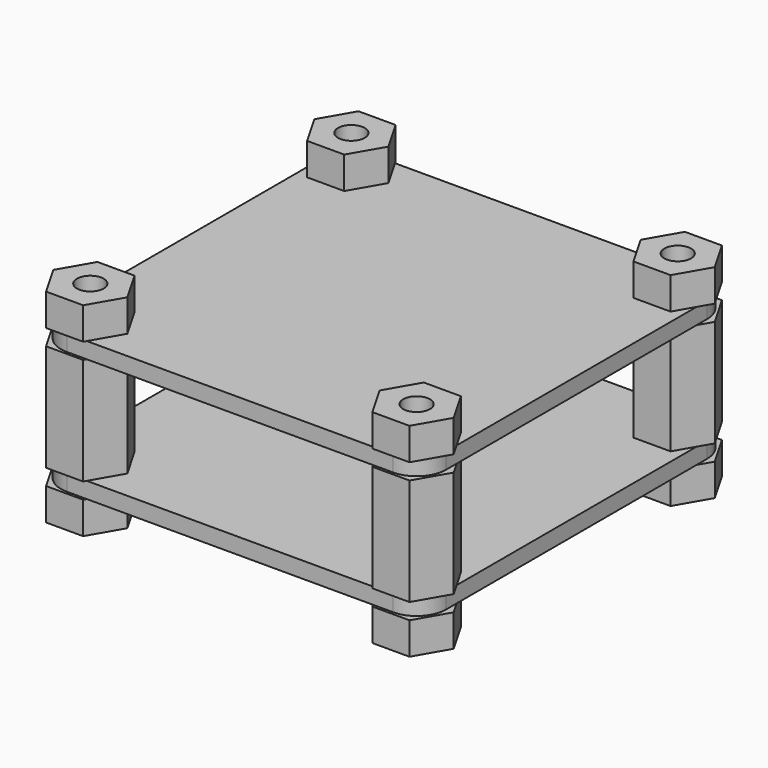
from build123d import *

# Parameters (mm, degrees)
F1_START = 3
F0_R     = 1.75
F1_DEPTH = 1.5
F2_START = 14.5
F2_DEPTH = 1.5
F3_R     = 1.25
F4_DEPTH = 3
F5_START = 4.5
F5_DEPTH = 10
F6_START = 16
F6_DEPTH = 3


with BuildPart() as f1:
    # F0 (on Top) → F1 (new body)
    with BuildSketch(Plane.XY.offset(F1_START)):
        with BuildLine():
            Line((15.25, 18), (-15.25, 18))
            ThreePointArc((-15.25, 18), (-17.1945436483, 17.1945436483), (-18, 15.25))
            Line((-18, 15.25), (-18, -15.25))
            ThreePointArc((-18, -15.25), (-17.1945436483, -17.1945436483), (-15.25, -18))
            Line((-15.25, -18), (15.25, -18))
            ThreePointArc((15.25, -18), (17.1945436483, -17.1945436483), (18, -15.25))
            Line((18, -15.25), (18, 15.25))
            ThreePointArc((18, 15.25), (17.1945436483, 17.1945436483), (15.25, 18))
        make_face()
        with Locations((-15.25, -15.25)):
            Circle(F0_R, mode=Mode.SUBTRACT)
        with Locations((15.25, -15.25)):
            Circle(F0_R, mode=Mode.SUBTRACT)
        with Locations((-15.25, 15.25)):
            Circle(F0_R, mode=Mode.SUBTRACT)
        with Locations((15.25, 15.25)):
            Circle(F0_R, mode=Mode.SUBTRACT)
    extrude(amount=F1_DEPTH)

    # F3 (on Top) → F4 (join)
    with BuildSketch(Plane.XY):
        Polygon((-13.5179491924, -18.25), (-11.7858983849, -15.25), (-13.5179491924, -12.25), (-16.9820508076, -12.25), (-18.7141016151, -15.25), (-16.9820508076, -18.25), align=None)
        with Locations((-15.25, -15.25)):
            Circle(F3_R, mode=Mode.SUBTRACT)
        Polygon((18.7141016151, -15.25), (16.9820508076, -12.25), (13.5179491924, -12.25), (11.7858983849, -15.25), (13.5179491924, -18.25), (16.9820508076, -18.25), align=None)
        with Locations((15.25, -15.25)):
            Circle(F3_R, mode=Mode.SUBTRACT)
        Polygon((13.5179491924, 18.25), (11.7858983849, 15.25), (13.5179491924, 12.25), (16.9820508076, 12.25), (18.7141016151, 15.25), (16.9820508076, 18.25), align=None)
        with Locations((15.25, 15.25)):
            Circle(F3_R, mode=Mode.SUBTRACT)
        Polygon((-13.5179491924, 12.25), (-11.7858983849, 15.25), (-13.5179491924, 18.25), (-16.9820508076, 18.25), (-18.7141016151, 15.25), (-16.9820508076, 12.25), align=None)
        with Locations((-15.25, 15.25)):
            Circle(F3_R, mode=Mode.SUBTRACT)
    extrude(amount=F4_DEPTH)



with BuildPart() as f2:
    # F0 (on Top) → F2 (new body)
    with BuildSketch(Plane.XY.offset(F2_START)):
        with BuildLine():
            Line((15.25, 18), (-15.25, 18))
            ThreePointArc((-15.25, 18), (-17.1945436483, 17.1945436483), (-18, 15.25))
            Line((-18, 15.25), (-18, -15.25))
            ThreePointArc((-18, -15.25), (-17.1945436483, -17.1945436483), (-15.25, -18))
            Line((-15.25, -18), (15.25, -18))
            ThreePointArc((15.25, -18), (17.1945436483, -17.1945436483), (18, -15.25))
            Line((18, -15.25), (18, 15.25))
            ThreePointArc((18, 15.25), (17.1945436483, 17.1945436483), (15.25, 18))
        make_face()
        with Locations((-15.25, -15.25)):
            Circle(F0_R, mode=Mode.SUBTRACT)
        with Locations((15.25, -15.25)):
            Circle(F0_R, mode=Mode.SUBTRACT)
        with Locations((-15.25, 15.25)):
            Circle(F0_R, mode=Mode.SUBTRACT)
        with Locations((15.25, 15.25)):
            Circle(F0_R, mode=Mode.SUBTRACT)
    extrude(amount=F2_DEPTH)


with BuildPart() as f1_1:
    add(f1.part)

    add(f2.part)  # F5 merges F2
    # F3 (on Top) → F5 (join)
    with BuildSketch(Plane.XY.offset(F5_START)):
        Polygon((-13.5179491924, -18.25), (-11.7858983849, -15.25), (-13.5179491924, -12.25), (-16.9820508076, -12.25), (-18.7141016151, -15.25), (-16.9820508076, -18.25), align=None)
        with Locations((-15.25, -15.25)):
            Circle(F3_R, mode=Mode.SUBTRACT)
        Polygon((18.7141016151, -15.25), (16.9820508076, -12.25), (13.5179491924, -12.25), (11.7858983849, -15.25), (13.5179491924, -18.25), (16.9820508076, -18.25), align=None)
        with Locations((15.25, -15.25)):
            Circle(F3_R, mode=Mode.SUBTRACT)
        Polygon((13.5179491924, 18.25), (11.7858983849, 15.25), (13.5179491924, 12.25), (16.9820508076, 12.25), (18.7141016151, 15.25), (16.9820508076, 18.25), align=None)
        with Locations((15.25, 15.25)):
            Circle(F3_R, mode=Mode.SUBTRACT)
        Polygon((-13.5179491924, 12.25), (-11.7858983849, 15.25), (-13.5179491924, 18.25), (-16.9820508076, 18.25), (-18.7141016151, 15.25), (-16.9820508076, 12.25), align=None)
        with Locations((-15.25, 15.25)):
            Circle(F3_R, mode=Mode.SUBTRACT)
    extrude(amount=F5_DEPTH)

    # F3 (on Top) → F6 (join)
    with BuildSketch(Plane.XY.offset(F6_START)):
        Polygon((-13.5179491924, -18.25), (-11.7858983849, -15.25), (-13.5179491924, -12.25), (-16.9820508076, -12.25), (-18.7141016151, -15.25), (-16.9820508076, -18.25), align=None)
        with Locations((-15.25, -15.25)):
            Circle(F3_R, mode=Mode.SUBTRACT)
        Polygon((18.7141016151, -15.25), (16.9820508076, -12.25), (13.5179491924, -12.25), (11.7858983849, -15.25), (13.5179491924, -18.25), (16.9820508076, -18.25), align=None)
        with Locations((15.25, -15.25)):
            Circle(F3_R, mode=Mode.SUBTRACT)
        Polygon((13.5179491924, 18.25), (11.7858983849, 15.25), (13.5179491924, 12.25), (16.9820508076, 12.25), (18.7141016151, 15.25), (16.9820508076, 18.25), align=None)
        with Locations((15.25, 15.25)):
            Circle(F3_R, mode=Mode.SUBTRACT)
        Polygon((-13.5179491924, 12.25), (-11.7858983849, 15.25), (-13.5179491924, 18.25), (-16.9820508076, 18.25), (-18.7141016151, 15.25), (-16.9820508076, 12.25), align=None)
        with Locations((-15.25, 15.25)):
            Circle(F3_R, mode=Mode.SUBTRACT)
    extrude(amount=F6_DEPTH)


solid = f1_1.part
